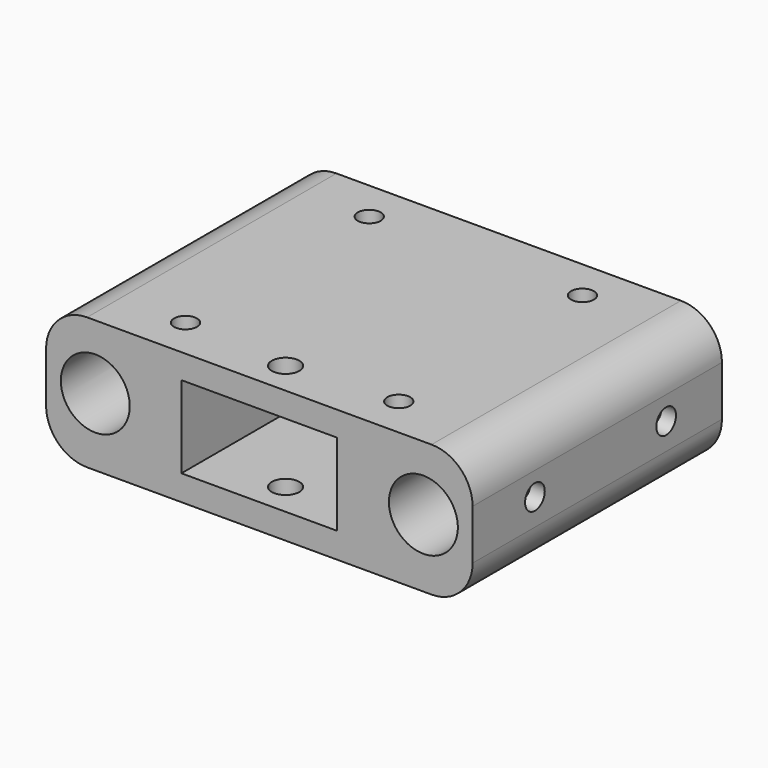
from build123d import *

# Parameters (mm, degrees)
BOX_W           = 52
BOX_H           = 38
BOX_DEPTH       = 16.1
SKETCH003_R     = 4.2
SKETCH003_W     = 19
SKETCH003_H     = 10
POCKET_DEPTH    = 38.001
SKETCH007_R     = 1.4
POCKET001_DEPTH = 16.101
SKETCH008_R     = 1.5
POCKET002_DEPTH = 3
SKETCH004_R     = 1.5
POCKET003_DEPTH = 3
SKETCH013_R     = 1.68
POCKET004_DEPTH = 16.101
FILLET004_R     = 5


with BuildPart() as part:
    # Box → Box (new body)
    with BuildSketch(Plane.XY):
        with Locations((26, 19)):
            Rectangle(BOX_W, BOX_H)
    extrude(amount=BOX_DEPTH)

    # Sketch003 → Pocket (cut, through all)
    with BuildSketch(Plane(origin=(0, 38, 0), x_dir=(-1, 0, 0), z_dir=(0, 1, 0))):
        with Locations((-46, 8.25)):
            Circle(SKETCH003_R)
        with Locations((-6, 8.25)):
            Circle(SKETCH003_R)
        with Locations((-26, 8.1)):
            Rectangle(SKETCH003_W, SKETCH003_H)
    extrude(amount=-POCKET_DEPTH, mode=Mode.SUBTRACT)

    # Sketch007 → Pocket001 (cut, through all)
    with BuildSketch(Plane.XY.offset(16.1)):
        with Locations((13, 5)):
            Circle(SKETCH007_R)
        with Locations((39, 5)):
            Circle(SKETCH007_R)
        with Locations((39, 33)):
            Circle(SKETCH007_R)
        with Locations((13, 33)):
            Circle(SKETCH007_R)
    extrude(amount=-POCKET001_DEPTH, mode=Mode.SUBTRACT)

    # Sketch008 → Pocket002 (cut)
    with BuildSketch(Plane(origin=(0, 0, 0), x_dir=(0, -1, 0), z_dir=(-1, 0, 0))):
        with Locations((-29.5, 8.25)):
            Circle(SKETCH008_R)
        with Locations((-9.5, 8.25)):
            Circle(SKETCH008_R)
    extrude(amount=-POCKET002_DEPTH, mode=Mode.SUBTRACT)

    # Sketch004 → Pocket003 (cut)
    with BuildSketch(Plane.YZ.offset(52)):
        with Locations((9.5, 8.25)):
            Circle(SKETCH004_R)
        with Locations((29.5, 8.25)):
            Circle(SKETCH004_R)
    extrude(amount=-POCKET003_DEPTH, mode=Mode.SUBTRACT)

    # Sketch013 → Pocket004 (cut, through all)
    with BuildSketch(Plane.XY.offset(16.1)):
        with Locations((26, 4)):
            Circle(SKETCH013_R)
    extrude(amount=-POCKET004_DEPTH, mode=Mode.SUBTRACT)

    # Fillet004
    fillet004_edges = [part.edges().sort_by_distance(p)[0] for p in [
        (52, 19, 16.1),
        (52, 19, 0),
        (0, 19, 16.1),
        (0, 19, 0),
    ]]
    fillet(fillet004_edges, radius=FILLET004_R)


solid = part.part
